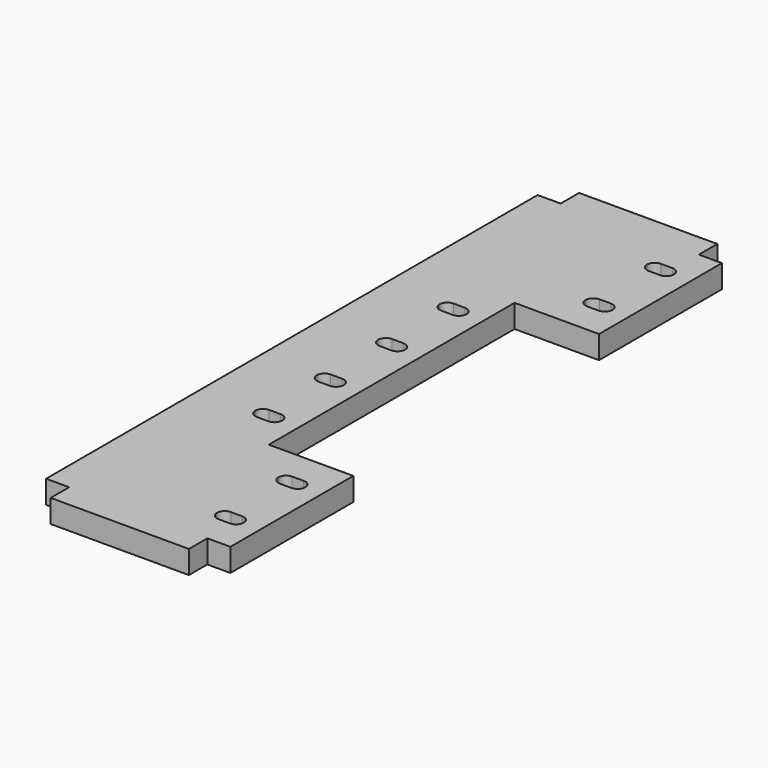
from build123d import *

# Parameters (mm, degrees)
F1_DEPTH = 1.5


with BuildPart() as f1:
    # F0 (on Top) → F1 (new body, symmetric)
    with BuildSketch(Plane.XY):
        Polygon((-52.603185, 89.276404), (-52.603174, 86.276474), (-55.603174, 86.276415), (-55.603174, 6.276474), (-52.603185, 6.276474), (-52.603185, 3.276485), (-34.603174, 3.276474), (-34.603174, 6.276474), (-31.603174, 6.276474), (-31.603174, 26.276474), (-42.603279, 26.276459), (-42.603279, 66.27643), (-31.603261, 66.27643), (-31.603261, 86.276415), (-34.603174, 86.276474), (-34.60325, 89.276404), align=None)
        with BuildLine():
            ThreePointArc((-47.353174, 30.276474), (-48.060281, 30.569367), (-48.353174, 31.276474))
            ThreePointArc((-48.353174, 31.276474), (-48.060281, 31.983581), (-47.353174, 32.276474))
            Line((-47.353174, 32.276474), (-45.853174, 32.276474))
            ThreePointArc((-45.853174, 32.276474), (-45.146067, 31.983581), (-44.853174, 31.276474))
            ThreePointArc((-44.853174, 31.276474), (-45.146067, 30.569367), (-45.853174, 30.276474))
            Line((-45.853174, 30.276474), (-47.353174, 30.276474))
        make_face(mode=Mode.SUBTRACT)
        with BuildLine():
            ThreePointArc((-47.353174, 40.276474), (-48.060281, 40.569367), (-48.353174, 41.276474))
            ThreePointArc((-48.353174, 41.276474), (-48.060281, 41.983581), (-47.353174, 42.276474))
            Line((-47.353174, 42.276474), (-45.853174, 42.276474))
            ThreePointArc((-45.853174, 42.276474), (-45.146067, 41.983581), (-44.853174, 41.276474))
            ThreePointArc((-44.853174, 41.276474), (-45.146067, 40.569367), (-45.853174, 40.276474))
            Line((-45.853174, 40.276474), (-47.353174, 40.276474))
        make_face(mode=Mode.SUBTRACT)
        with BuildLine():
            ThreePointArc((-36.353174, 10.276474), (-37.060281, 10.569367), (-37.353174, 11.276474))
            ThreePointArc((-37.353174, 11.276474), (-37.060281, 11.983581), (-36.353174, 12.276474))
            Line((-36.353174, 12.276474), (-34.853174, 12.276474))
            ThreePointArc((-34.853174, 12.276474), (-34.146067, 11.983581), (-33.853174, 11.276474))
            ThreePointArc((-33.853174, 11.276474), (-34.146067, 10.569367), (-34.853174, 10.276474))
            Line((-34.853174, 10.276474), (-36.353174, 10.276474))
        make_face(mode=Mode.SUBTRACT)
        with BuildLine():
            ThreePointArc((-36.353174, 20.276474), (-37.060281, 20.569367), (-37.353174, 21.276474))
            ThreePointArc((-37.353174, 21.276474), (-37.060281, 21.983581), (-36.353174, 22.276474))
            Line((-36.353174, 22.276474), (-34.853174, 22.276474))
            ThreePointArc((-34.853174, 22.276474), (-34.146067, 21.983581), (-33.853174, 21.276474))
            ThreePointArc((-33.853174, 21.276474), (-34.146067, 20.569367), (-34.853174, 20.276474))
            Line((-34.853174, 20.276474), (-36.353174, 20.276474))
        make_face(mode=Mode.SUBTRACT)
        with BuildLine():
            ThreePointArc((-47.353174, 50.276474), (-48.060281, 50.569367), (-48.353174, 51.276474))
            ThreePointArc((-48.353174, 51.276474), (-48.060281, 51.983581), (-47.353174, 52.276474))
            Line((-47.353174, 52.276474), (-45.853174, 52.276474))
            ThreePointArc((-45.853174, 52.276474), (-45.146067, 51.983581), (-44.853174, 51.276474))
            ThreePointArc((-44.853174, 51.276474), (-45.146067, 50.569367), (-45.853174, 50.276474))
            Line((-45.853174, 50.276474), (-47.353174, 50.276474))
        make_face(mode=Mode.SUBTRACT)
        with BuildLine():
            ThreePointArc((-47.353174, 60.276474), (-48.060281, 60.569367), (-48.353174, 61.276474))
            ThreePointArc((-48.353174, 61.276474), (-48.060281, 61.983581), (-47.353174, 62.276474))
            Line((-47.353174, 62.276474), (-45.853174, 62.276474))
            ThreePointArc((-45.853174, 62.276474), (-45.146067, 61.983581), (-44.853174, 61.276474))
            ThreePointArc((-44.853174, 61.276474), (-45.146067, 60.569367), (-45.853174, 60.276474))
            Line((-45.853174, 60.276474), (-47.353174, 60.276474))
        make_face(mode=Mode.SUBTRACT)
        with BuildLine():
            ThreePointArc((-36.353174, 70.276474), (-37.060281, 70.569367), (-37.353174, 71.276474))
            ThreePointArc((-37.353174, 71.276474), (-37.060281, 71.983581), (-36.353174, 72.276474))
            Line((-36.353174, 72.276474), (-34.853174, 72.276474))
            ThreePointArc((-34.853174, 72.276474), (-34.146067, 71.983581), (-33.853174, 71.276474))
            ThreePointArc((-33.853174, 71.276474), (-34.146067, 70.569367), (-34.853174, 70.276474))
            Line((-34.853174, 70.276474), (-36.353174, 70.276474))
        make_face(mode=Mode.SUBTRACT)
        with BuildLine():
            ThreePointArc((-36.353174, 80.276474), (-37.060281, 80.569367), (-37.353174, 81.276474))
            ThreePointArc((-37.353174, 81.276474), (-37.060281, 81.983581), (-36.353174, 82.276474))
            Line((-36.353174, 82.276474), (-34.853174, 82.276474))
            ThreePointArc((-34.853174, 82.276474), (-34.146067, 81.983581), (-33.853174, 81.276474))
            ThreePointArc((-33.853174, 81.276474), (-34.146067, 80.569367), (-34.853174, 80.276474))
            Line((-34.853174, 80.276474), (-36.353174, 80.276474))
        make_face(mode=Mode.SUBTRACT)
    extrude(amount=F1_DEPTH, both=True)


solid = f1.part
